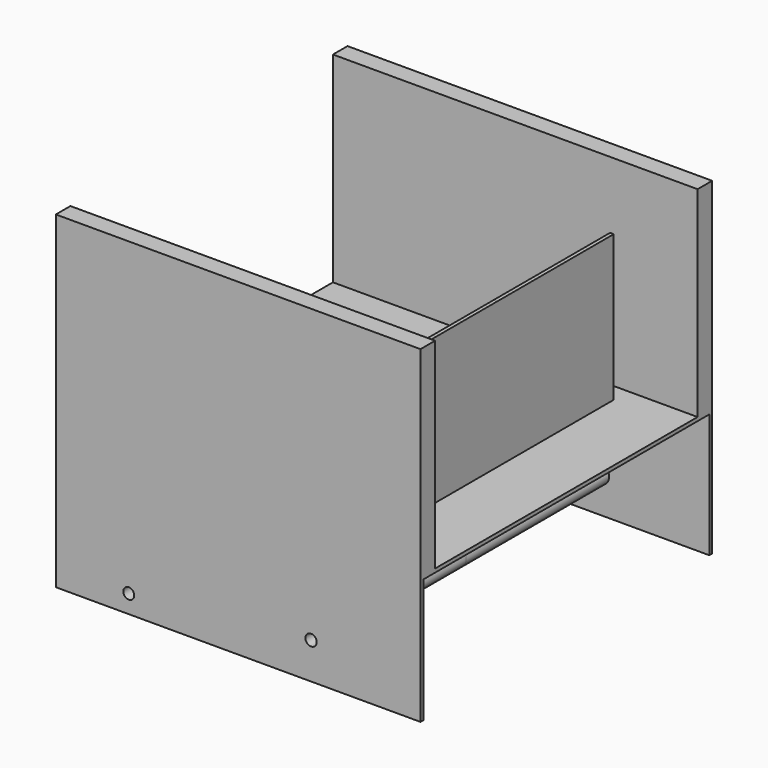
from build123d import *

# Parameters (mm, degrees)
F0_W     = 254
F0_H     = 88.9
F0_R     = 3.81
F0_R_2   = 3.937
F1_DEPTH = 127
F2_T     = -2.54
F3_W     = 2.54
F3_H     = 101.6
F4_DEPTH = 101.6
F5_W     = 254
F5_H     = 12.7
F6_DEPTH = 139.7


with BuildPart() as f1:
    # F0 (on Front) → F1 (new body)
    with BuildSketch(Plane.XZ):
        with Locations((-25.4, -44.45)):
            Rectangle(F0_W, F0_H)
        with Locations((-101.6, -76.2)):
            Circle(F0_R, mode=Mode.SUBTRACT)
        with Locations((25.4, -63.5)):
            Circle(F0_R_2, mode=Mode.SUBTRACT)
    extrude(amount=F1_DEPTH)

    # F2
    f2_openings = [f1.faces().sort_by_distance(p)[0] for p in [
        (-25.35547, 0, -44.344356),
        (-25.4, -63.5, -88.9),
        (101.6, -63.5, -44.45),
    ]]
    offset(amount=F2_T, openings=f2_openings)

    # F3 (on face) → F4 (join)
    with BuildSketch(Plane.XY):
        with Locations((52.07, -50.8)):
            Rectangle(F3_W, F3_H)
    extrude(amount=F4_DEPTH)

    # F5 (on face) → F6 (join)
    with BuildSketch(Plane.XY):
        with Locations((-25.4, -120.65)):
            Rectangle(F5_W, F5_H)
    extrude(amount=F6_DEPTH)

    # F7: F1 across plane


with BuildPart() as f1_1:
    add(f1.part)
    add(f1.part.mirror(Plane.XZ))


solid = f1_1.part
